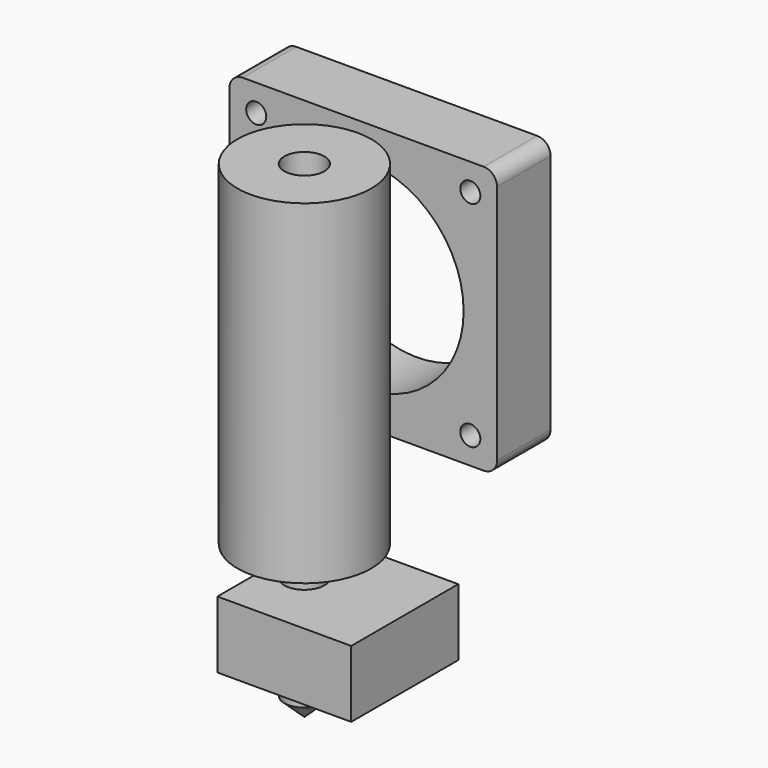
from build123d import *

# Parameters (mm, degrees)
F0_R      = 10
F0_R_2    = 8
F0_R_3    = 3
F1_DEPTH  = 10
F2_DEPTH  = 40
F3_DEPTH  = 60
F5_DEPTH  = 10
F3_FACE_R = 3
F7_W      = 40
F7_H      = 40
F7_R      = 1.5
F7_R_2    = 15
F8_DEPTH  = 10
F9_R      = 2


with BuildPart() as f1:
    # F0 (on Top) → F1 (new body)
    with BuildSketch(Plane.XY):
        Circle(F0_R)
        Circle(F0_R_2, mode=Mode.SUBTRACT)
        Circle(F0_R_2)
        Circle(F0_R_3, mode=Mode.SUBTRACT)
    extrude(amount=F1_DEPTH)

    # F0 (on Top) → F2 (join)
    with BuildSketch(Plane.XY):
        Circle(F0_R)
        Circle(F0_R_2, mode=Mode.SUBTRACT)
        Circle(F0_R_2)
        Circle(F0_R_3, mode=Mode.SUBTRACT)
        Circle(F0_R_3)
    extrude(amount=-F2_DEPTH)

    # F0 (on Top) → F3 (join)
    with BuildSketch(Plane.XY):
        Circle(F0_R_3)
    extrude(amount=-F3_DEPTH)

    # F4 (on Front) → F5 (join, symmetric)
    with BuildSketch(Plane.XZ):
        Polygon((3, -44.5), (-3, -44.5), (-5, -44.5), (-5, -54.5), (15, -54.5), (15, -44.5), align=None)
    extrude(amount=F5_DEPTH, both=True)

    # F3_face (on face) → F6 section 0
    with BuildSketch(Plane(origin=(0, 0, -60), x_dir=(1, 0, 0), z_dir=(0, 0, -1)), mode=Mode.PRIVATE) as f6_s0:
        Circle(F3_FACE_R)
    loft([f6_s0.sketch, Vertex(0, 0, -62.8)])


with BuildPart() as f8:
    # F7 (on Front) → F8 (new body)
    with BuildSketch(Plane.XZ):
        Rectangle(F7_W, F7_H)
        with Locations((-16, -16)):
            Circle(F7_R, mode=Mode.SUBTRACT)
        with Locations((16, -16)):
            Circle(F7_R, mode=Mode.SUBTRACT)
        with Locations((-16, 16)):
            Circle(F7_R, mode=Mode.SUBTRACT)
        Circle(F7_R_2, mode=Mode.SUBTRACT)
        with Locations((16, 16)):
            Circle(F7_R, mode=Mode.SUBTRACT)
    extrude(amount=-F8_DEPTH)

    # F9
    f9_edges = [f8.edges().sort_by_distance(p)[0] for p in [
        (-20, 5, 20),
        (20, 5, 20),
        (20, 5, -20),
        (-20, 5, -20),
    ]]
    fillet(f9_edges, radius=F9_R)


with BuildPart() as f8_1:
    # F10: moved
    add(f8.part.moved(Location((0, 11, -9))))


solid = Compound([f1.part, f8_1.part])
